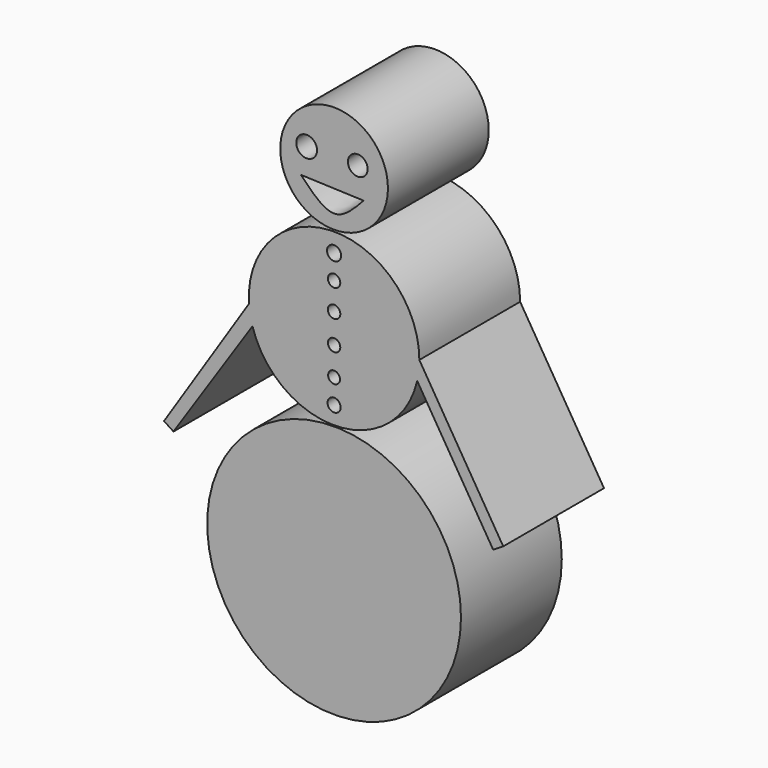
from build123d import *

# Parameters (mm, degrees)
F0_R     = 10.8549073209
F0_R_2   = 2.0961399234
F0_R_3   = 1.9872936117
F1_DEPTH = 25.4
F0_R_4   = 1.3219813679
F0_R_5   = 1.198723712
F0_R_6   = 1.2463724431
F0_R_7   = 1.2618566245
F0_R_8   = 1.2463706761
F0_R_9   = 1.4255288273
F0_R_10  = 25.5805449954
F2_SCALE = 0.46
F3_SCALE = 0.5
F4_SCALE = 1.6


with BuildPart() as f1:
    # F0 (on Front) → F1 (new body)
    with BuildSketch(Plane.XZ):
        with Locations((0, 55.9675879776)):
            Circle(F0_R)
        with BuildLine():
            add(Edge.make_bspline(
                [(-6.7059616558, 52.6756346226), (-4.4359472194, 50.3284138965), (-0.0227290904, 45.7650961948), (3.9970950385, 50.1011808863), (5.949253682, 52.2069260478)],
                knots=[0, 0, 0, 0, 0.5143671512, 1, 1, 1, 1], degree=3))
            Line((-6.7059616558, 52.6756346226), (5.949253682, 52.2069260478))
        make_face(mode=Mode.SUBTRACT)
        with Locations((-5.5341827683, 58.0658167601)):
            Circle(F0_R_2, mode=Mode.SUBTRACT)
        with Locations((4.7774747945, 58.0658167601)):
            Circle(F0_R_3, mode=Mode.SUBTRACT)
    extrude(amount=F1_DEPTH)


with BuildPart() as f1b:
    # F0 (on Front) → F1, piece 2 (new body)
    with BuildSketch(Plane.XZ):
        with BuildLine():
            ThreePointArc((16.751068317, 23.7489718951), (17.0767151789, 25.6570555689), (17.1857251032, 27.5896564126))
            ThreePointArc((17.1857251032, 27.5896564126), (-0.5915587824, 44.765197322), (-17.1450003982, 26.4072399586))
            ThreePointArc((-17.1450003982, 26.4072399586), (-16.9061447629, 24.5023571757), (-16.4563191548, 22.6360004699))
            ThreePointArc((-16.4563191548, 22.6360004699), (0.5756697104, 10.4135756109), (16.751068317, 23.7489718951))
        make_face()
        with Locations((0, 13.9918969944)):
            Circle(F0_R_4, mode=Mode.SUBTRACT)
        with Locations((0, 18.9186204225)):
            Circle(F0_R_5, mode=Mode.SUBTRACT)
        with Locations((0, 24.633621797)):
            Circle(F0_R_6, mode=Mode.SUBTRACT)
        with Locations((0, 30.5456910282)):
            Circle(F0_R_7, mode=Mode.SUBTRACT)
        with Locations((0, 36.063618958)):
            Circle(F0_R_8, mode=Mode.SUBTRACT)
        with Locations((0, 40.9578457475)):
            Circle(F0_R_9, mode=Mode.SUBTRACT)
        with BuildLine():
            ThreePointArc((-16.4563191548, 22.6360004699), (-16.9061447629, 24.5023571757), (-17.1450003982, 26.4072399586))
            Line((-17.1450003982, 26.4072399586), (-34.2900007963, 0))
            Line((-34.2900007963, 0), (-32.3767441537, -1.2421891099))
            Line((-32.3767441537, -1.2421891099), (-16.4563191548, 22.6360004699))
        make_face()
        with BuildLine():
            Line((34.0929292142, 0), (17.1857251032, 27.5896564126))
            ThreePointArc((17.1857251032, 27.5896564126), (17.0767151789, 25.6570555689), (16.751068317, 23.7489718951))
            Line((16.751068317, 23.7489718951), (32.0658897039, -1.2421891099))
            Line((32.0658897039, -1.2421891099), (34.0929292142, 0))
        make_face()
    extrude(amount=F1_DEPTH)


with BuildPart() as f1c:
    # F0 (on Front) → F1, piece 3 (new body)
    with BuildSketch(Plane.XZ):
        with Locations((0, -15.3713794425)):
            Circle(F0_R_10)
    extrude(amount=F1_DEPTH)


with BuildPart() as f1b_1:
    # F2: moved
    add(f1b.part.scale(F2_SCALE))


with BuildPart() as f1c_1:
    # F2: moved
    add(f1c.part.scale(F2_SCALE))


with BuildPart() as f1_1:
    # F2: moved
    add(f1.part.scale(F2_SCALE))


with BuildPart() as f1b_2:
    # F3: moved
    add(f1b_1.part.scale(F3_SCALE))


with BuildPart() as f1c_2:
    # F3: moved
    add(f1c_1.part.scale(F3_SCALE))


with BuildPart() as f1_2:
    # F3: moved
    add(f1_1.part.scale(F3_SCALE))


with BuildPart() as f1b_3:
    # F4: moved
    add(f1b_2.part.scale(F4_SCALE))


with BuildPart() as f1c_3:
    # F4: moved
    add(f1c_2.part.scale(F4_SCALE))


with BuildPart() as f1_3:
    # F4: moved
    add(f1_2.part.scale(F4_SCALE))


solid = Compound([f1b_3.part, f1c_3.part, f1_3.part])
